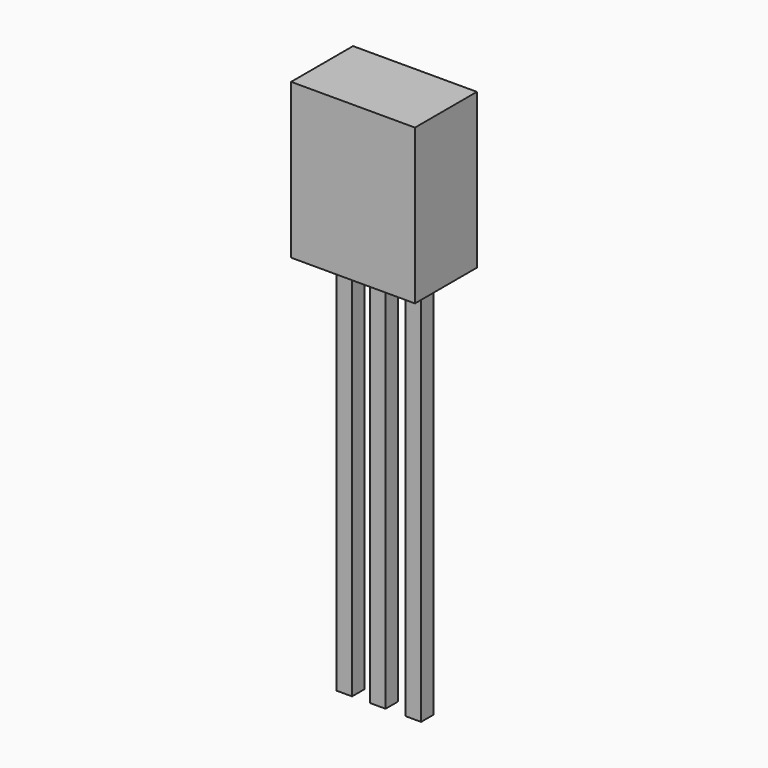
from build123d import *

# Parameters (mm, degrees)
F0_W     = 8
F0_H     = 10
F1_DEPTH = 5
F2_W     = 1
F2_H     = 1
F3_DEPTH = 25


with BuildPart() as f1:
    # F0 (on Front) → F1 (new body)
    with BuildSketch(Plane.XZ):
        Rectangle(F0_W, F0_H)
    extrude(amount=F1_DEPTH)


with BuildPart() as f3:
    # F2 (on face) → F3 (new body)
    with BuildSketch(Plane(origin=(0, 0, -5), x_dir=(1, 0, 0), z_dir=(0, 0, -1))):
        with Locations((0, 2.5)):
            Rectangle(F2_W, F2_H)
        with Locations((2.297318, 2.5)):
            Rectangle(F2_W, F2_H)
        with Locations((-2.162663, 2.5)):
            Rectangle(F2_W, F2_H)
    extrude(amount=F3_DEPTH)


solid = Compound([f1.part, f3.part])
